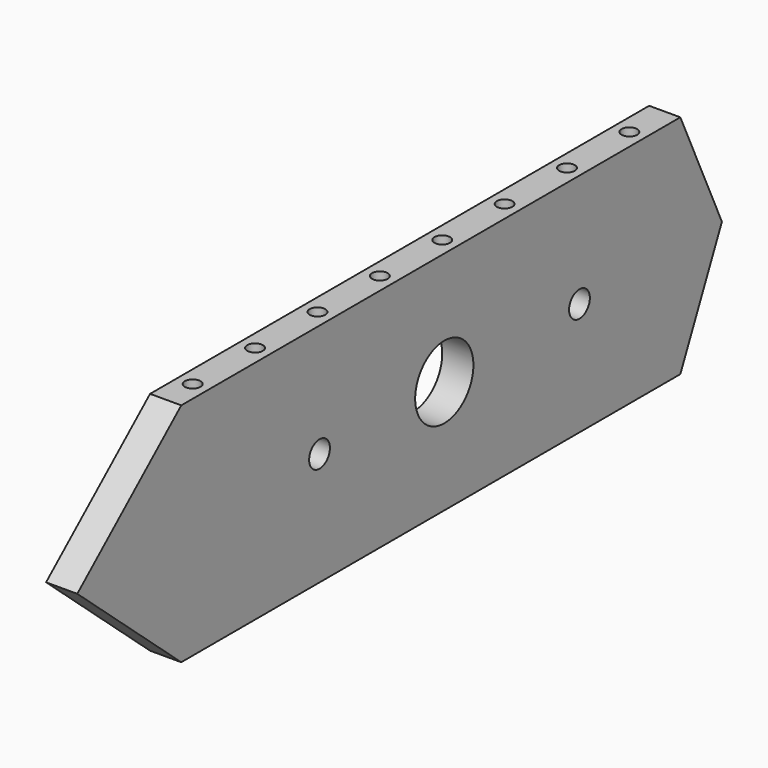
from build123d import *

# Parameters (mm, degrees)
F0_R     = 5
F0_R_2   = 14
F1_DEPTH = 12
F2_R     = 3
F3_DEPTH = 20
F5_DEPTH = 20


with BuildPart() as f1:
    # F0 (on Right) → F1 (new body)
    with BuildSketch(Plane.YZ):
        Polygon((-50, 43.5), (0, 0), (240, 0), (260, 43.5), (240, 87), (0, 87), align=None)
        with Locations((66.5, 43.5)):
            Circle(F0_R, mode=Mode.SUBTRACT)
        with Locations((126.5, 43.5)):
            Circle(F0_R_2, mode=Mode.SUBTRACT)
        with Locations((191.5, 43.5)):
            Circle(F0_R, mode=Mode.SUBTRACT)
    extrude(amount=F1_DEPTH)

    # F2 (on face) → F3 (cut)
    with BuildSketch(Plane.XY.offset(87)):
        with Locations((6, 13)):
            Circle(F2_R)
        with Locations((6, 43)):
            Circle(F2_R)
        with Locations((6, 73)):
            Circle(F2_R)
        with Locations((6, 103)):
            Circle(F2_R)
        with Locations((6, 133)):
            Circle(F2_R)
        with Locations((6, 163)):
            Circle(F2_R)
        with Locations((6, 193)):
            Circle(F2_R)
        with Locations((6, 223)):
            Circle(F2_R)
    extrude(amount=-F3_DEPTH, mode=Mode.SUBTRACT)

    # F4 (on face) → F5 (cut)
    with BuildSketch(Plane(origin=(0, 0, 0), x_dir=(1, 0, 0), z_dir=(0, 0, -1))):
        with BuildLine():
            ThreePointArc((6, -220), (3, -223), (6, -226))
            Line((6, -226), (6, -220))
        make_face()
        with BuildLine():
            ThreePointArc((6, -10), (3, -13), (6, -16))
            Line((6, -16), (6, -13))
            Line((6, -13), (6, -10))
        make_face()
        with BuildLine():
            Line((6, -13), (6, -16))
            ThreePointArc((6, -16), (8.12132, -15.12132), (9, -13))
            Line((9, -13), (6, -13))
        make_face()
        with BuildLine():
            ThreePointArc((6, -40), (3, -43), (6, -46))
            Line((6, -46), (6, -43))
            Line((6, -43), (6, -40))
        make_face()
        with BuildLine():
            Line((6, -43), (6, -46))
            ThreePointArc((6, -46), (8.12132, -45.12132), (9, -43))
            ThreePointArc((9, -43), (8.12132, -40.87868), (6, -40))
            Line((6, -40), (6, -43))
        make_face()
        with BuildLine():
            ThreePointArc((6, -70), (3, -73), (6, -76))
            Line((6, -76), (6, -70))
        make_face()
        with BuildLine():
            Line((6, -70), (6, -76))
            ThreePointArc((6, -76), (8.12132, -75.12132), (9, -73))
            ThreePointArc((9, -73), (8.12132, -70.87868), (6, -70))
        make_face()
        with BuildLine():
            ThreePointArc((6, -100), (3, -103), (6, -106))
            Line((6, -106), (6, -100))
        make_face()
        with BuildLine():
            Line((6, -100), (6, -106))
            ThreePointArc((6, -106), (8.12132, -105.12132), (9, -103))
            ThreePointArc((9, -103), (8.12132, -100.87868), (6, -100))
        make_face()
        with BuildLine():
            ThreePointArc((6, -130), (3, -133), (6, -136))
            Line((6, -136), (6, -130))
        make_face()
        with BuildLine():
            Line((6, -130), (6, -136))
            ThreePointArc((6, -136), (8.12132, -135.12132), (9, -133))
            ThreePointArc((9, -133), (8.12132, -130.87868), (6, -130))
        make_face()
        with BuildLine():
            ThreePointArc((6, -160), (3, -163), (6, -166))
            Line((6, -166), (6, -160))
        make_face()
        with BuildLine():
            Line((6, -160), (6, -166))
            ThreePointArc((6, -166), (8.12132, -165.12132), (9, -163))
            ThreePointArc((9, -163), (8.12132, -160.87868), (6, -160))
        make_face()
        with BuildLine():
            ThreePointArc((6, -190), (3, -193), (6, -196))
            Line((6, -196), (6, -190))
        make_face()
        with BuildLine():
            Line((6, -190), (6, -196))
            ThreePointArc((6, -196), (8.12132, -195.12132), (9, -193))
            ThreePointArc((9, -193), (8.12132, -190.87868), (6, -190))
        make_face()
        with BuildLine():
            Line((6, -220), (6, -226))
            ThreePointArc((6, -226), (8.12132, -225.12132), (9, -223))
            ThreePointArc((9, -223), (8.12132, -220.87868), (6, -220))
        make_face()
        with BuildLine():
            Line((6, -10), (6, -13))
            Line((6, -13), (9, -13))
            ThreePointArc((9, -13), (8.12132, -10.87868), (6, -10))
        make_face()
    extrude(amount=-F5_DEPTH, mode=Mode.SUBTRACT)


solid = f1.part
